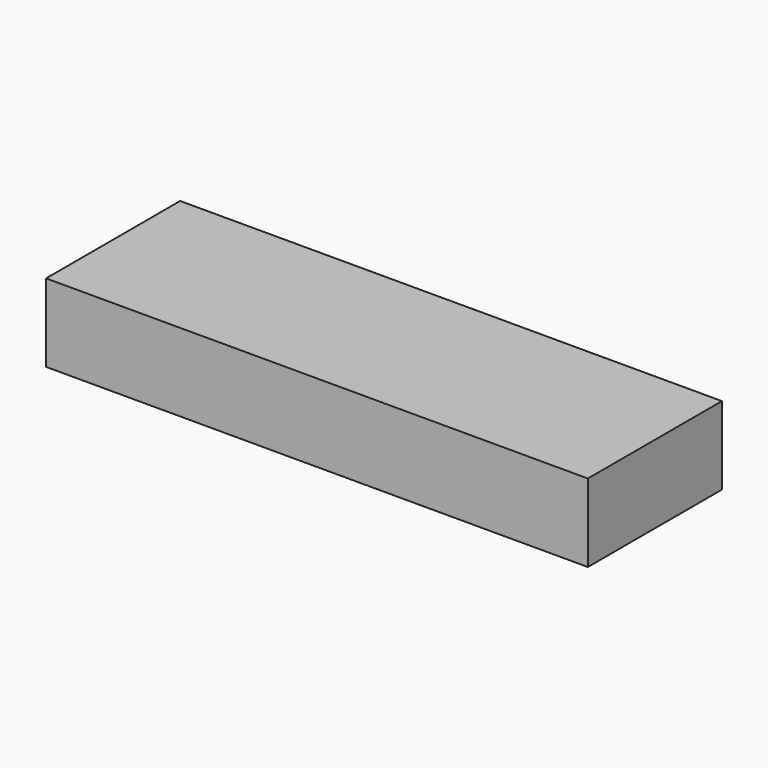
from build123d import *

# Parameters (mm, degrees)
BOX_W     = 139
BOX_H     = 43
BOX_DEPTH = 20


with BuildPart() as part:
    # Box → Box (new body)
    with BuildSketch(Plane.XY):
        with Locations((69.5, 21.5)):
            Rectangle(BOX_W, BOX_H)
    extrude(amount=BOX_DEPTH)


solid = part.part
